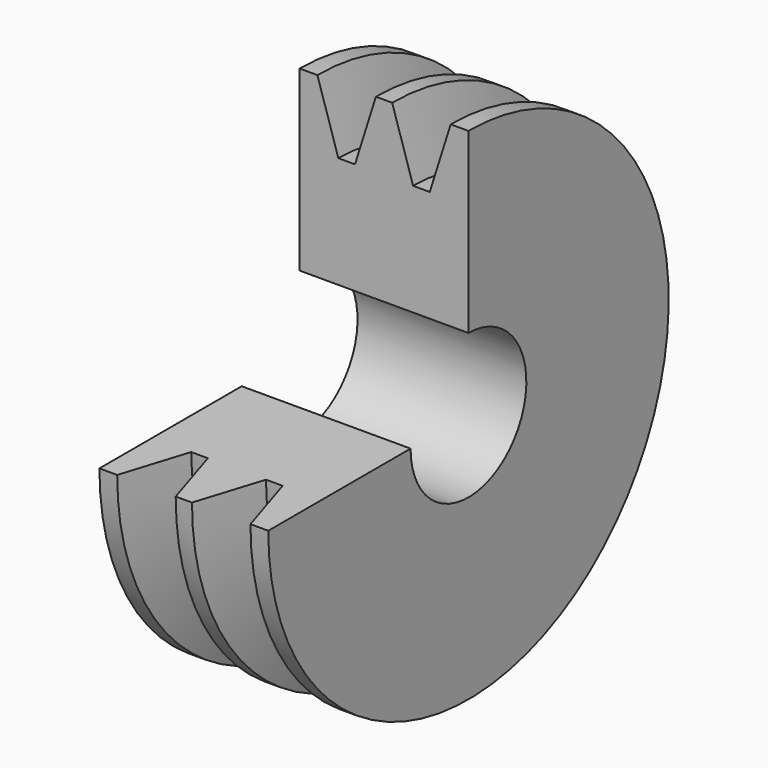
from build123d import *

# Parameters (mm, degrees)
F0_W     = 28
F0_H     = 3.3
F1_ANGLE = 270


with BuildPart() as f1:
    # F0 (on Front) → F1 (revolve)
    with BuildSketch(Plane.XZ):
        Polygon((-44.159789, 41.5), (-44.159789, 15.3), (-16.159789, 15.3), (-16.159789, 41.5), (-19.109789, 41.5), (-22.578075, 30.5), (-25.341502, 30.5), (-28.809789, 41.5), (-31.509789, 41.5), (-34.978075, 30.5), (-37.741502, 30.5), (-41.209789, 41.5), align=None)
        with Locations((-30.159789, 13.65)):
            Rectangle(F0_W, F0_H)
    revolve(axis=Axis((-30.159789, 0, 0), (-1, 0, 0)), revolution_arc=F1_ANGLE)


solid = f1.part
